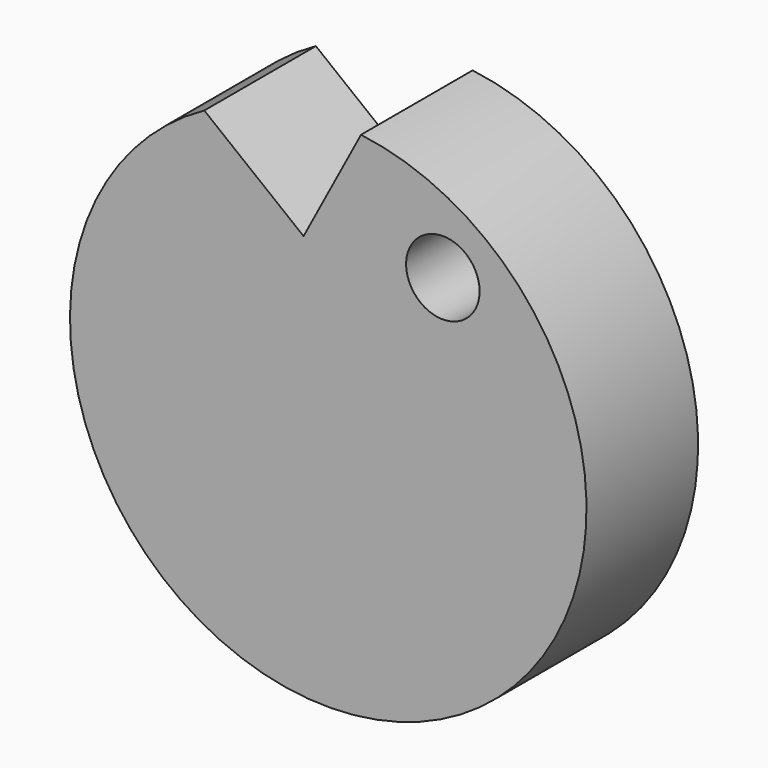
from build123d import *

# Parameters (mm, degrees)
F0_R     = 6.689065
F1_DEPTH = 25.4


with BuildPart() as f1:
    # F0 (on Front) → F1 (new body)
    with BuildSketch(Plane.XZ):
        with BuildLine():
            Line((8.969205, 3.105557), (-9.105042, 17.3747))
            ThreePointArc((-9.105042, 17.3747), (22.197023, -70.104296), (19.433245, 22.765266))
            Line((19.433245, 22.765266), (8.969205, 3.105557))
        make_face()
        with Locations((34.336574, 4.691018)):
            Circle(F0_R, mode=Mode.SUBTRACT)
    extrude(amount=F1_DEPTH)


solid = f1.part
